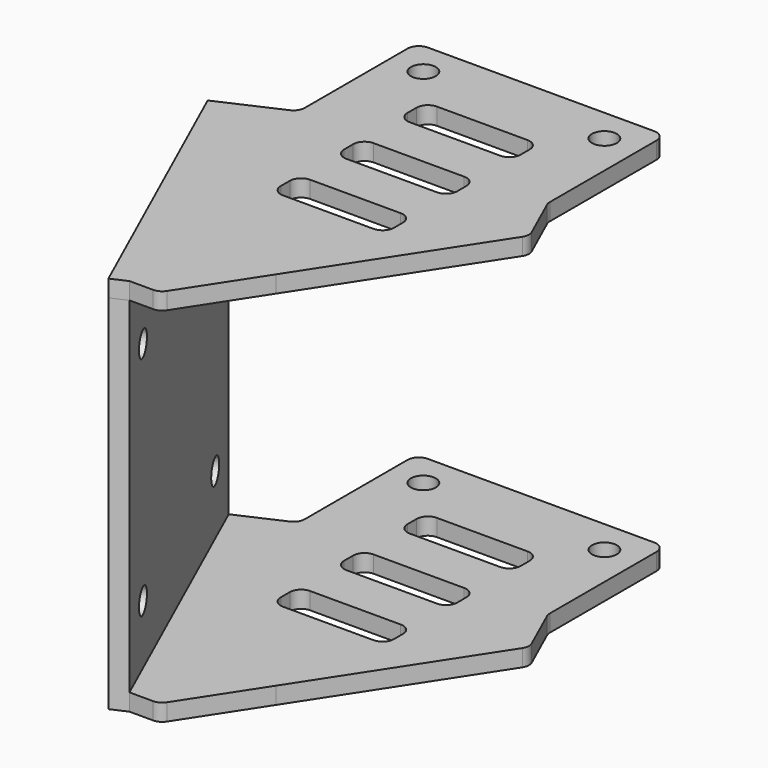
from build123d import *

# Parameters (mm, degrees)
F0_R      = 1.1
F1_DEPTH  = 1.5
F3_DEPTH  = 1.5
F4_W      = 21.9317121995
F4_H      = 1.5
F5_DEPTH  = 5
F7_DEPTH  = 1.5
F9_DEPTH  = 1.5
F10_R     = 1
F11_W     = 27.487267755
F11_H     = 1.5
F12_DEPTH = 1.5
F14_DEPTH = 32
F17_R     = 1.1
F18_DEPTH = 1.5


with BuildPart() as f1:
    # F0 (on Top) → F1 (new body)
    with BuildSketch(Plane.XY):
        Polygon((11, 3.5), (11, 16.5), (-11, 16.5), (-11, 3.5), (-2, -16.5), (11, -16.5), align=None)
        with Locations((-8, 13.5)):
            Circle(F0_R, mode=Mode.SUBTRACT)
        with Locations((8, 13.5)):
            Circle(F0_R, mode=Mode.SUBTRACT)
        Polygon((20, -16.5), (11, 3.5), (11, -16.5), align=None)
    extrude(amount=F1_DEPTH)

    # F2 (on face) → F3 (cut, through all)
    with BuildSketch(Plane.XY.offset(1.5)):
        Polygon((13.0518233866, -1.0596075259), (3, -16.5), (20, -16.5), align=None)
        with BuildLine():
            Line((4, 10), (-4, 10))
            ThreePointArc((-4, 10), (-4.7071067812, 9.7071067812), (-5, 9))
            Line((-5, 9), (-5, 8))
            ThreePointArc((-5, 8), (-4.7071067812, 7.2928932188), (-4, 7))
            Line((-4, 7), (4, 7))
            ThreePointArc((4, 7), (4.7071067812, 7.2928932188), (5, 8))
            Line((5, 8), (5, 9))
            ThreePointArc((5, 9), (4.7071067812, 9.7071067812), (4, 10))
        make_face()
        with BuildLine():
            Line((4, 3), (-4, 3))
            ThreePointArc((-4, 3), (-4.7071067812, 2.7071067812), (-5, 2))
            Line((-5, 2), (-5, 1))
            ThreePointArc((-5, 1), (-4.7071067812, 0.2928932188), (-4, 0))
            Line((-4, 0), (4, 0))
            ThreePointArc((4, 0), (4.7071067812, 0.2928932188), (5, 1))
            Line((5, 1), (5, 2))
            ThreePointArc((5, 2), (4.7071067812, 2.7071067812), (4, 3))
        make_face()
        with BuildLine():
            Line((4, -4), (-4, -4))
            ThreePointArc((-4, -4), (-4.7071067812, -4.2928932188), (-5, -5))
            Line((-5, -5), (-5, -6))
            ThreePointArc((-5, -6), (-4.7071067812, -6.7071067812), (-4, -7))
            Line((-4, -7), (4, -7))
            ThreePointArc((4, -7), (4.7071067812, -6.7071067812), (5, -6))
            Line((5, -6), (5, -5))
            ThreePointArc((5, -5), (4.7071067812, -4.2928932188), (4, -4))
        make_face()
    extrude(amount=-F3_DEPTH, mode=Mode.SUBTRACT)

    # F4 (on face) → F5 (join)
    with BuildSketch(Plane(origin=(-7.8378378378, -3.527027027, 0), x_dir=(0.4103646773, -0.9119215052, 0), z_dir=(-0.9119215052, -0.4103646773, 0))):
        with Locations((3.260119381, 0.75)):
            Rectangle(F4_W, F4_H)
    extrude(amount=F5_DEPTH)

    # F6 (on face) → F7 (join)
    with BuildSketch(Plane.XY.offset(1.5)):
        Polygon((-2, -16.5), (-6.5596075259, -18.5518233866), (-4.2798037629, -23.618053971), (3, -23.618053971), (3, -16.5), align=None)
    extrude(amount=-F7_DEPTH)

    # F8 (on face) → F9 (cut, through all)
    with BuildSketch(Plane.XY.offset(1.5)):
        Polygon((3, -23.618053971), (3, -16.5), (-1.6339120908, -23.618053971), align=None)
    extrude(amount=-F9_DEPTH, mode=Mode.SUBTRACT)

    # F10
    f10_edges = [f1.edges().sort_by_distance(p)[0] for p in [
        (-11, 16.5, 0.75),
        (11, 16.5, 0.75),
        (-11, 3.5, 0.75),
        (-1.633912, -23.618054, 0.75),
        (13.051823, -1.059608, 0.75),
        (11, 3.5, 0.75),
    ]]
    fillet(f10_edges, radius=F10_R)

    # F11 (on face) → F12 (join)
    with BuildSketch(Plane(origin=(-12.3974453637, -5.5788504137, 0), x_dir=(0.4103646773, -0.9119215052, 0), z_dir=(-0.9119215052, -0.4103646773, 0))):
        with Locations((6.0378971588, 0.75)):
            Rectangle(F11_W, F11_H)
    extrude(amount=F12_DEPTH)

    # F13 (on face) → F14 (join)
    with BuildSketch(Plane(origin=(0, 0, 0), x_dir=(1, 0, 0), z_dir=(0, 0, -1))):
        Polygon((-15.5596075259, -1.4481766134), (-4.2798037629, 23.618053971), (-5.6476860207, 24.2336009869), (-16.9274897836, -0.8326295974), align=None)
    extrude(amount=F14_DEPTH)

    # F16: F1 across plane


with BuildPart() as f1_1:
    add(f1.part)
    add(f1.part.mirror(Plane.XY.offset(-15.25)))

    # F17 (on face) → F18 (cut, through all)
    with BuildSketch(Plane(origin=(-13.7653276215, -6.1943974297, 0), x_dir=(0.4103646773, -0.9119215052, 0), z_dir=(-0.9119215052, -0.4103646773, 0))):
        with Locations((-3.9621028412, -25.25)):
            Circle(F17_R)
        with Locations((16.0378971588, -25.25)):
            Circle(F17_R)
        with Locations((-3.9621028412, -5.25)):
            Circle(F17_R)
        with Locations((16.0378971588, -5.25)):
            Circle(F17_R)
    extrude(amount=-F18_DEPTH, mode=Mode.SUBTRACT)


solid = f1_1.part
